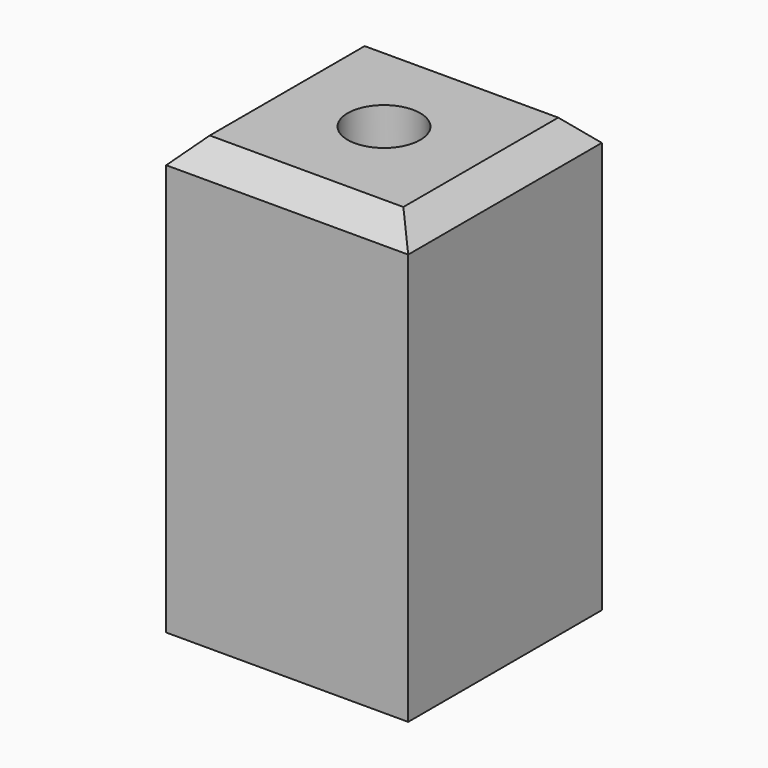
from build123d import *

# Parameters (mm, degrees)
F0_W     = 50
F0_H     = 50
F1_DEPTH = 90
F2_SIZE  = 5
F4_R     = 7.5
F5_DEPTH = 20


with BuildPart() as f1:
    # F0 (on Top) → F1 (new body)
    with BuildSketch(Plane.XY):
        with Locations((-8.762377, -2.680112)):
            Rectangle(F0_W, F0_H)
    extrude(amount=F1_DEPTH)

    # F2
    f2_edges = [f1.edges().sort_by_distance(p)[0] for p in [
        (-8.762377, 22.319888, 90),
        (-33.762377, -2.680112, 90),
        (-8.762377, -27.680112, 90),
        (16.237623, -2.680112, 90),
    ]]
    chamfer(f2_edges, length=F2_SIZE)

    # F4 (on face) → F5 (cut)
    with BuildSketch(Plane.XY.offset(90)):
        with Locations((-8.762377, -2.680112)):
            Circle(F4_R)
    extrude(amount=-F5_DEPTH, mode=Mode.SUBTRACT)


solid = f1.part
